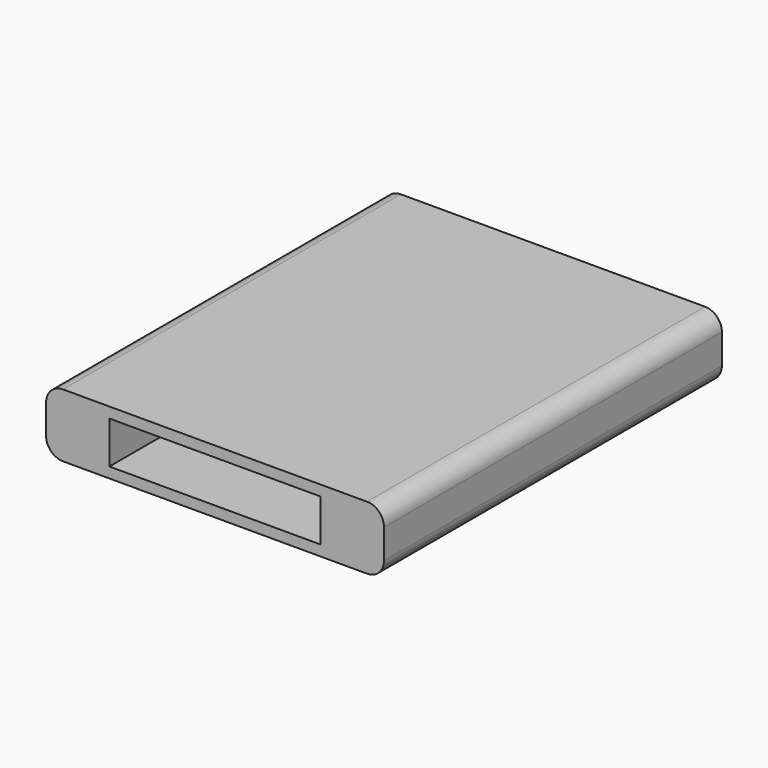
from build123d import *

# Parameters (mm, degrees)
F0_W     = 101.6
F0_H     = 19.05
F2_DEPTH = 127
F1_W     = 63.5
F1_H     = 12.7
F3_DEPTH = 19.05
F4_R     = 5.08


with BuildPart() as f2:
    # F0 (on Front) → F2 (new body)
    with BuildSketch(Plane.XZ):
        Rectangle(F0_W, F0_H)
    extrude(amount=-F2_DEPTH)

    # F1 (on face) → F3 (cut)
    with BuildSketch(Plane.XZ):
        Rectangle(F1_W, F1_H)
    extrude(amount=-F3_DEPTH, mode=Mode.SUBTRACT)

    # F4
    f4_edges = [f2.edges().sort_by_distance(p)[0] for p in [
        (-50.8, 63.5, 9.525),
        (50.8, 63.5, 9.525),
        (50.8, 63.5, -9.525),
        (-50.8, 63.5, -9.525),
    ]]
    fillet(f4_edges, radius=F4_R)


solid = f2.part
